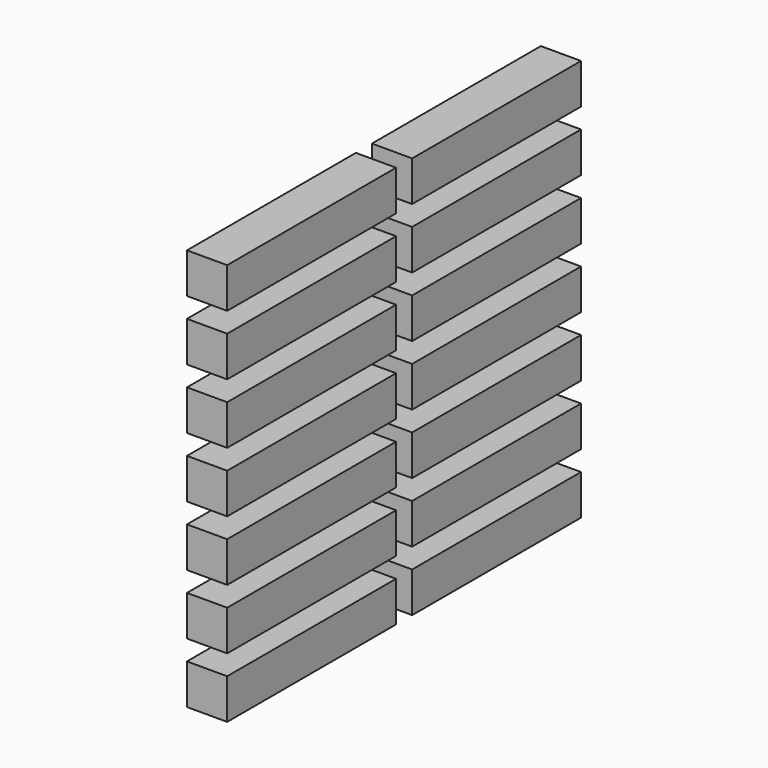
from build123d import *

# Parameters (mm, degrees)
F0_W     = 5.25
F0_H     = 1
F1_DEPTH = 1


with BuildPart() as f1:
    # F0 (on Right) → F1 (new body)
    with BuildSketch(Plane.YZ):
        with Locations((2.875, 10.75)):
            Rectangle(F0_W, F0_H)
        with Locations((8.625, 10.75)):
            Rectangle(F0_W, F0_H)
        with Locations((2.875, 9.25)):
            Rectangle(F0_W, F0_H)
        with Locations((8.625, 9.25)):
            Rectangle(F0_W, F0_H)
        with Locations((2.875, 7.75)):
            Rectangle(F0_W, F0_H)
        with Locations((8.625, 7.75)):
            Rectangle(F0_W, F0_H)
        with Locations((2.875, 6.25)):
            Rectangle(F0_W, F0_H)
        with Locations((8.625, 6.25)):
            Rectangle(F0_W, F0_H)
        with Locations((2.875, 4.75)):
            Rectangle(F0_W, F0_H)
        with Locations((8.625, 4.75)):
            Rectangle(F0_W, F0_H)
        with Locations((8.625, 3.25)):
            Rectangle(F0_W, F0_H)
        with Locations((2.875, 3.25)):
            Rectangle(F0_W, F0_H)
        with Locations((2.875, 1.75)):
            Rectangle(F0_W, F0_H)
        with Locations((8.625, 1.75)):
            Rectangle(F0_W, F0_H)
    extrude(amount=F1_DEPTH)


solid = f1.part
